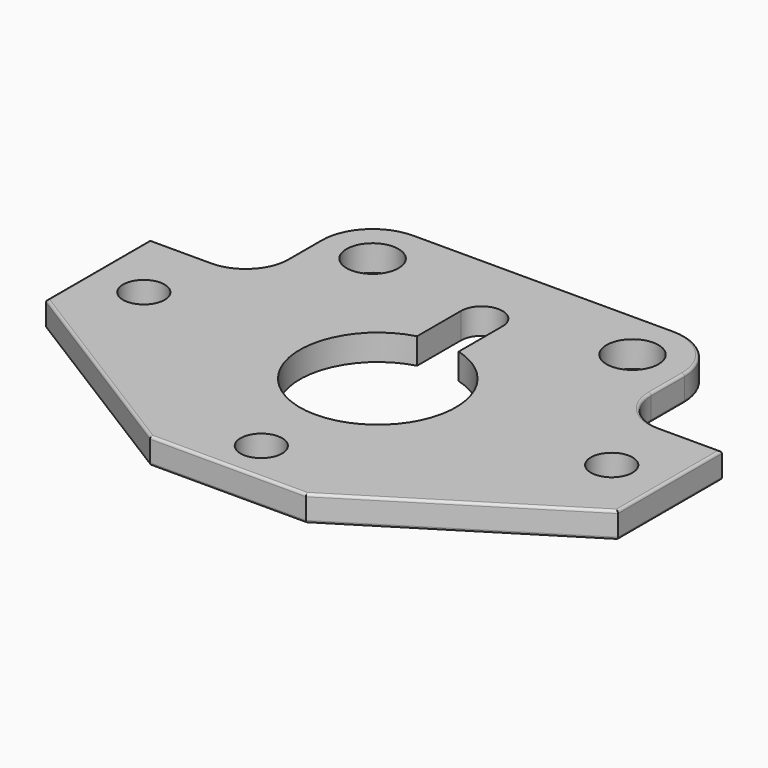
from build123d import *

# Parameters (mm, degrees)
SKETCH_R    = 4
SKETCH_R_2  = 5
PAD_DEPTH   = 5
FILLET_R    = 0.5
FILLET001_R = 0.5


with BuildPart() as part:
    # Sketch → Pad (new body)
    with BuildSketch(Plane.XY):
        with BuildLine():
            Line((-25, 40), (25, 40))
            ThreePointArc((35, 30), (32.071068, 37.071068), (25, 40))
            Line((35, 30), (35, 22))
            ThreePointArc((35, 22), (37.343146, 16.343146), (43, 14))
            Line((43, 14), (55, 14))
            Line((55, 14), (55, -11))
            Line((55, -11), (15, -36))
            Line((15, -36), (-15, -36))
            Line((-15, -36), (-55, -11))
            Line((-55, -11), (-55, 14))
            Line((-55, 14), (-43, 14))
            ThreePointArc((-43, 14), (-37.343146, 16.343146), (-35, 22))
            Line((-35, 22), (-35, 30))
            ThreePointArc((-25, 40), (-32.071068, 37.071068), (-35, 30))
        make_face()
        with Locations((0, -28)):
            Circle(SKETCH_R, mode=Mode.SUBTRACT)
        with Locations((45, 0)):
            Circle(SKETCH_R, mode=Mode.SUBTRACT)
        with Locations((-45, 0)):
            Circle(SKETCH_R, mode=Mode.SUBTRACT)
        with Locations((25, 30)):
            Circle(SKETCH_R_2, mode=Mode.SUBTRACT)
        with Locations((-25, 30)):
            Circle(SKETCH_R_2, mode=Mode.SUBTRACT)
        with BuildLine():
            ThreePointArc((-4, 14.456832), (0, -15), (4, 14.456832))
            Line((4, 25), (4, 14.456832))
            ThreePointArc((4, 25), (0, 29), (-4, 25))
            Line((-4, 25), (-4, 14.456832))
        make_face(mode=Mode.SUBTRACT)
    extrude(amount=PAD_DEPTH)

    # Fillet
    fillet_edges = [part.edges().sort_by_distance(p)[0] for p in [
        (-55, 1.5, 5),
        (-35, -23.5, 5),
        (0, -36, 5),
        (35, -23.5, 5),
        (55, 1.5, 5),
        (49, 14, 5),
        (37.343146, 16.343146, 5),
        (35, 26, 5),
        (32.071068, 37.071068, 5),
        (0, 40, 5),
        (-32.071068, 37.071068, 5),
        (-35, 26, 5),
        (-37.343146, 16.343146, 5),
        (-49, 14, 5),
    ]]
    fillet(fillet_edges, radius=FILLET_R)

    # Fillet001
    fillet001_edges = [part.edges().sort_by_distance(p)[0] for p in [
        (0, -36, 0),
        (-35, -23.5, 0),
        (-55, 1.5, 0),
        (-49, 14, 0),
        (-37.343146, 16.343146, 0),
        (-35, 26, 0),
        (-32.071068, 37.071068, 0),
        (0, 40, 0),
        (32.071068, 37.071068, 0),
        (35, 26, 0),
        (37.343146, 16.343146, 0),
        (49, 14, 0),
        (55, 1.5, 0),
        (35, -23.5, 0),
    ]]
    fillet(fillet001_edges, radius=FILLET001_R)


solid = part.part
